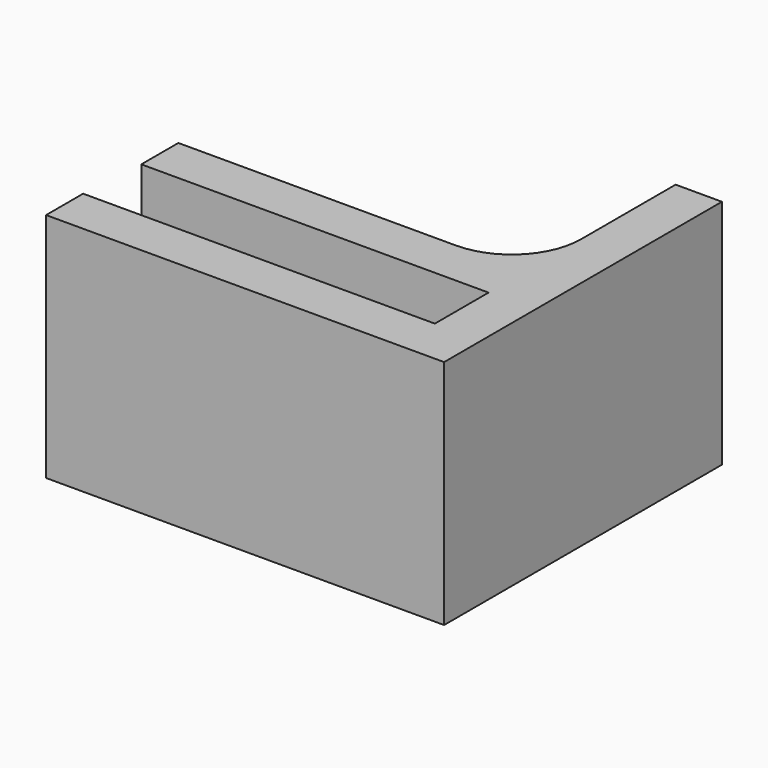
from build123d import *

# Parameters (mm, degrees)
F0_W     = 15.193479
F0_H     = 2
F1_DEPTH = 10


with BuildPart() as f1:
    # F0 (on Top) → F1 (new body)
    with BuildSketch(Plane.XY):
        with Locations((-7.596739, -1)):
            Rectangle(F0_W, F0_H)
        with BuildLine():
            Line((0, 2.9), (0, 0))
            Line((0, 0), (0, -2))
            Line((0, -2), (2, -2))
            Line((2, -2), (2, 13))
            Line((2, 13), (0, 13))
            Line((0, 13), (0, 7.9))
            ThreePointArc((0, 7.9), (-0.87868, 5.77868), (-3, 4.9))
            Line((-3, 4.9), (-15, 4.9))
            Line((-15, 4.9), (-15, 2.9))
            Line((-15, 2.9), (0, 2.9))
        make_face()
    extrude(amount=F1_DEPTH)


solid = f1.part
